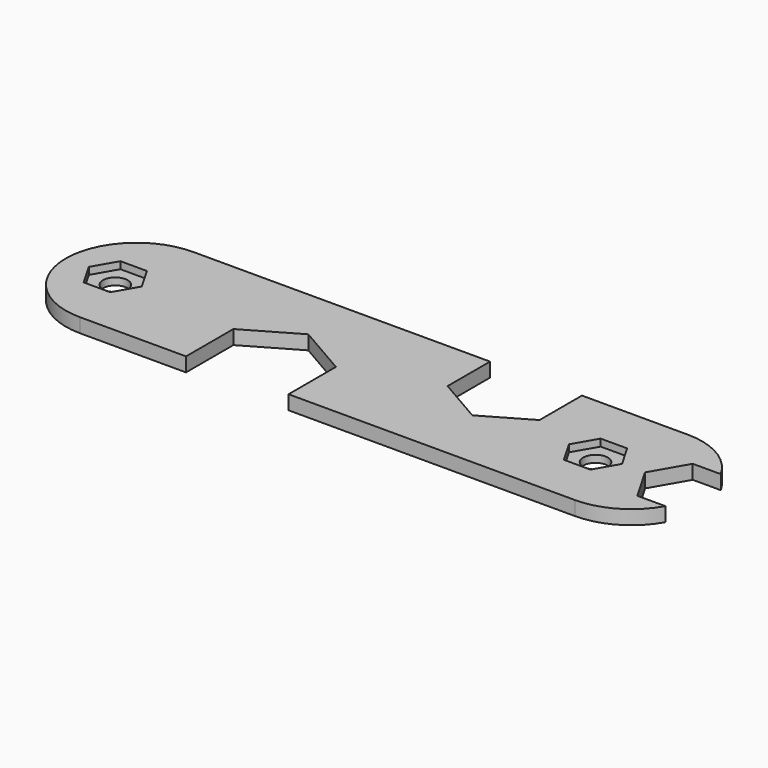
from build123d import *

# Parameters (mm, degrees)
F0_R     = 1.75
F1_DEPTH = 2
F3_DEPTH = 1


with BuildPart() as f1:
    # F0 (on Top) → F1 (new body)
    with BuildSketch(Plane.XY):
        with BuildLine():
            Line((78.439617, 10), (36.439617, 10))
            ThreePointArc((36.439617, 10), (26.439617, 0), (36.439617, -10))
            Line((36.439617, -10), (51.439617, -10))
            Line((51.439617, -10), (51.439617, -1.628421))
            Line((51.439617, -1.628421), (58.689617, 2.557368))
            Line((58.689617, 2.557368), (65.939617, -1.628421))
            Line((65.939617, -1.628421), (65.939617, -10))
            Line((65.939617, -10), (106.439617, -10))
            ThreePointArc((106.439617, -10), (111.48937, -8.631338), (115.156841, -4.9))
            Line((115.156841, -4.9), (111.18543, -4.9))
            Line((111.18543, -4.9), (108.356414, 0))
            Line((108.356414, 0), (111.18543, 4.9))
            Line((111.18543, 4.9), (115.156841, 4.9))
            ThreePointArc((115.156841, 4.9), (111.48937, 8.631338), (106.439617, 10))
            Line((106.439617, 10), (91.439617, 10))
            Line((91.439617, 10), (91.439617, 2.494447))
            Line((91.439617, 2.494447), (84.939617, -1.25833))
            Line((84.939617, -1.25833), (78.439617, 2.494447))
            Line((78.439617, 2.494447), (78.439617, 10))
        make_face()
        with Locations((33.439617, 0)):
            Circle(F0_R, mode=Mode.SUBTRACT)
        with Locations((101.356414, 0)):
            Circle(F0_R, mode=Mode.SUBTRACT)
    extrude(amount=F1_DEPTH)

    # F2 (on face) → F3 (cut)
    with BuildSketch(Plane.XY.offset(2)):
        Polygon((31.563229, -3.25), (35.316005, -3.25), (37.192394, 0), (35.316005, 3.25), (31.563229, 3.25), (29.68684, 0), align=None)
        Polygon((99.480025, -3.25), (103.232802, -3.25), (105.10919, 0), (103.232802, 3.25), (99.480025, 3.25), (97.603637, 0), align=None)
    extrude(amount=-F3_DEPTH, mode=Mode.SUBTRACT)


solid = f1.part
